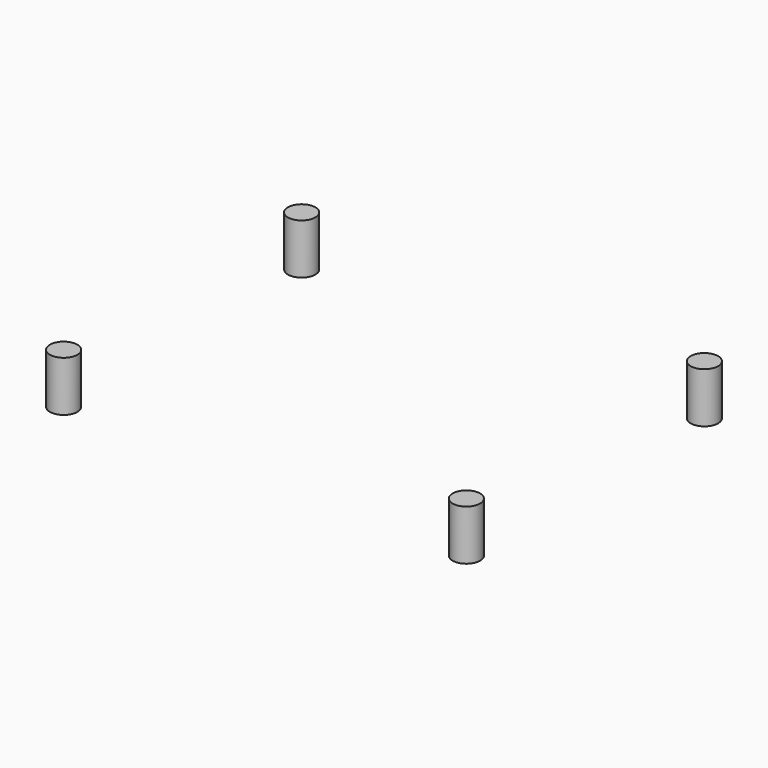
from build123d import *

# Parameters (mm, degrees)
CYLINDER_R        = 3
CYLINDER_DEPTH    = 11
CYLINDER004_R     = 3
CYLINDER004_DEPTH = 11
CYLINDER006_R     = 3
CYLINDER006_DEPTH = 11
CYLINDER002_R     = 3
CYLINDER002_DEPTH = 11


with BuildPart() as zylinder:
    # Cylinder → Cylinder (new body)
    with BuildSketch(Plane(origin=(2.5, 2.5, 0), x_dir=(1, 0, 0), z_dir=(0, 0, 1))):
        Circle(CYLINDER_R)
    extrude(amount=CYLINDER_DEPTH)


with BuildPart() as zylinder004:
    # Cylinder004 → Cylinder004 (new body)
    with BuildSketch(Plane(origin=(90.5, 67.5, 0), x_dir=(1, 0, 0), z_dir=(0, 0, 1))):
        Circle(CYLINDER004_R)
    extrude(amount=CYLINDER004_DEPTH)


with BuildPart() as zylinder006:
    # Cylinder006 → Cylinder006 (new body)
    with BuildSketch(Plane(origin=(2.5, 67.5, 0), x_dir=(1, 0, 0), z_dir=(0, 0, 1))):
        Circle(CYLINDER006_R)
    extrude(amount=CYLINDER006_DEPTH)


with BuildPart() as fusion:
    # Cylinder002 → Cylinder002 (new body)
    with BuildSketch(Plane(origin=(90.5, 2.5, 0), x_dir=(1, 0, 0), z_dir=(0, 0, 1))):
        Circle(CYLINDER002_R)
    extrude(amount=CYLINDER002_DEPTH)

    # Fusion: union Zylinder, Zylinder004, Zylinder006
    add(zylinder.part)
    add(zylinder004.part)
    add(zylinder006.part)


with BuildPart() as fusion_1:
    # Fusion placement: moved
    add(fusion.part.moved(Location((0, 0, -12.6))))


solid = fusion_1.part
